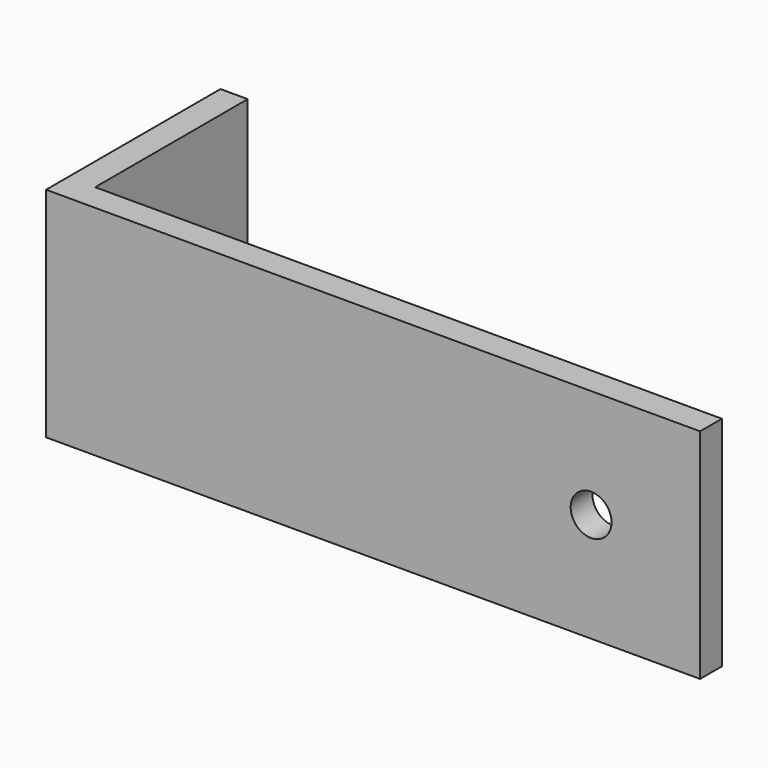
from build123d import *

# Parameters (mm, degrees)
F1_DEPTH = 25.4
F2_R     = 4.7625
F3_DEPTH = 50.801


with BuildPart() as f1:
    # F0 (on Top) → F1 (new body, symmetric)
    with BuildSketch(Plane.XY):
        Polygon((-76.2, 227.114077), (-76.2, 233.464077), (-222.25, 233.464077), (-222.25, 277.914077), (-228.6, 277.914077), (-228.6, 227.114077), align=None)
    extrude(amount=F1_DEPTH, both=True)

    # F2 (on face) → F3 (cut, through all)
    with BuildSketch(Plane.XZ.offset(-227.114077)):
        with Locations((-101.6, 0)):
            Circle(F2_R)
    extrude(amount=-F3_DEPTH, mode=Mode.SUBTRACT)


solid = f1.part
